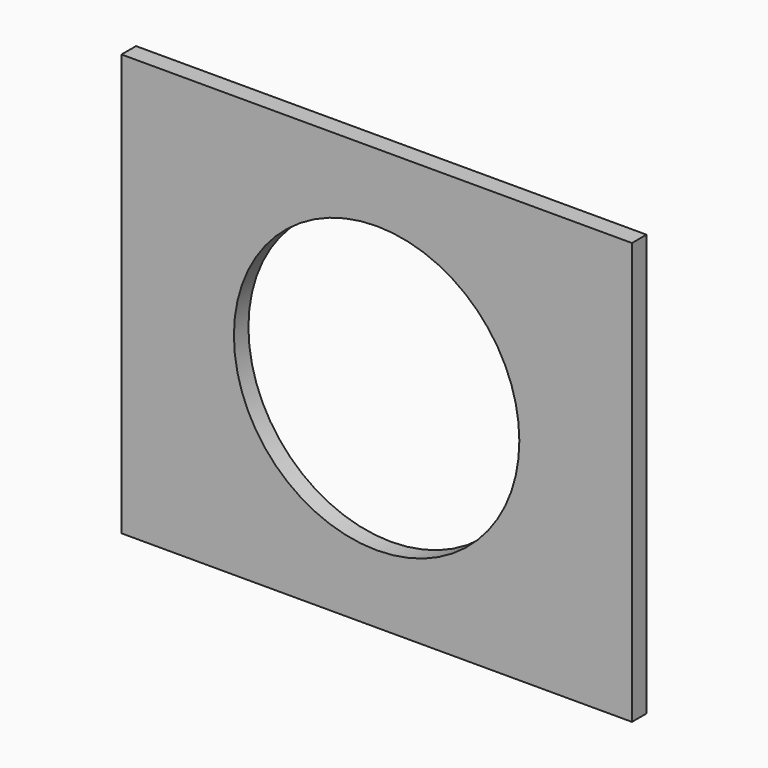
from build123d import *

# Parameters (mm, degrees)
F0_W     = 506.1
F0_H     = 418
F2_DEPTH = 18
F1_R     = 141.5
F3_DEPTH = 18.001


with BuildPart() as f2:
    # F0 (on Front) → F2 (new body)
    with BuildSketch(Plane.XZ):
        with Locations((7.742077, 51.551734)):
            Rectangle(F0_W, F0_H)
    extrude(amount=F2_DEPTH)

    # F1 (on Front) → F3 (cut, through all)
    with BuildSketch(Plane.XZ):
        with Locations((7.618296, 51.558696)):
            Circle(F1_R)
    extrude(amount=F3_DEPTH, mode=Mode.SUBTRACT)


solid = f2.part
